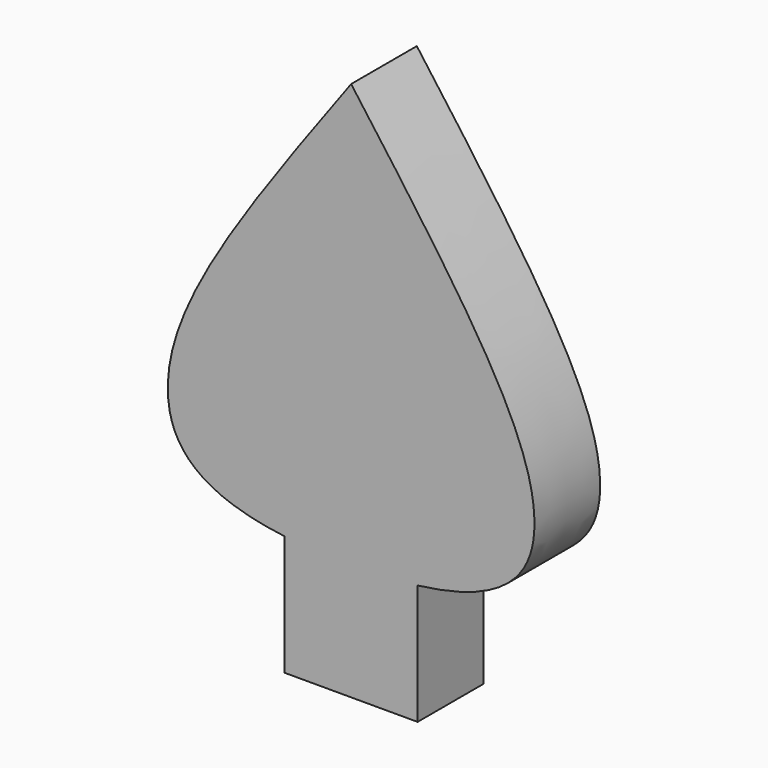
from build123d import *

# Parameters (mm, degrees)
F1_DEPTH = 10.922


with BuildPart() as f1:
    # F0 (on Front) → F1 (new body)
    with BuildSketch(Plane.XZ):
        with BuildLine():
            add(Edge.make_bspline(
                [(0, 0), (-3.3667510871, 0), (-6.2970937436, 0.1663674378), (-8.8414875791, 0.4784876968)],
                knots=[0, 0, 0, 0, 0.0726948808, 0.0726948808, 0.0726948808, 0.0726948808], degree=3))
            add(Edge.make_bspline(
                [(0, 0), (3.3667510871, 0), (6.2970937436, 0.1663674378), (8.8414875791, 0.4784876968)],
                knots=[0, 0, 0, 0, 0.0726948808, 0.0726948808, 0.0726948808, 0.0726948808], degree=3))
            add(Edge.make_bspline(
                [(8.8414875791, 0.4784876968), (21.2553534524, 2.001294024), (29.6920602658, 15.0538095138), (15.387032181, 35.4573056102), (0, 56.3235506415)],
                knots=[0.0726948808, 0.0726948808, 0.0726948808, 0.0726948808, 0.4273665857, 1, 1, 1, 1], degree=3))
            add(Edge.make_bspline(
                [(-8.8414875791, 0.4784876968), (-21.2553534524, 2.001294024), (-29.6920602658, 15.0538095138), (-15.387032181, 35.4573056102), (0, 56.3235506415)],
                knots=[0.0726948808, 0.0726948808, 0.0726948808, 0.0726948808, 0.4273665857, 1, 1, 1, 1], degree=3))
        make_face()
        with BuildLine():
            add(Edge.make_bspline(
                [(0, 0), (3.3667510871, 0), (6.2970937436, 0.1663674378), (8.8414875791, 0.4784876968)],
                knots=[0, 0, 0, 0, 0.0726948808, 0.0726948808, 0.0726948808, 0.0726948808], degree=3))
            add(Edge.make_bspline(
                [(0, 0), (-3.3667510871, 0), (-6.2970937436, 0.1663674378), (-8.8414875791, 0.4784876968)],
                knots=[0, 0, 0, 0, 0.0726948808, 0.0726948808, 0.0726948808, 0.0726948808], degree=3))
            Line((-8.8414875791, 0.4784876968), (-8.8414875791, -15.4998917132))
            Line((-8.8414875791, -15.4998917132), (8.8414875791, -15.4998917132))
            Line((8.8414875791, -15.4998917132), (8.8414875791, 0.4784876968))
        make_face()
    extrude(amount=F1_DEPTH)


solid = f1.part
